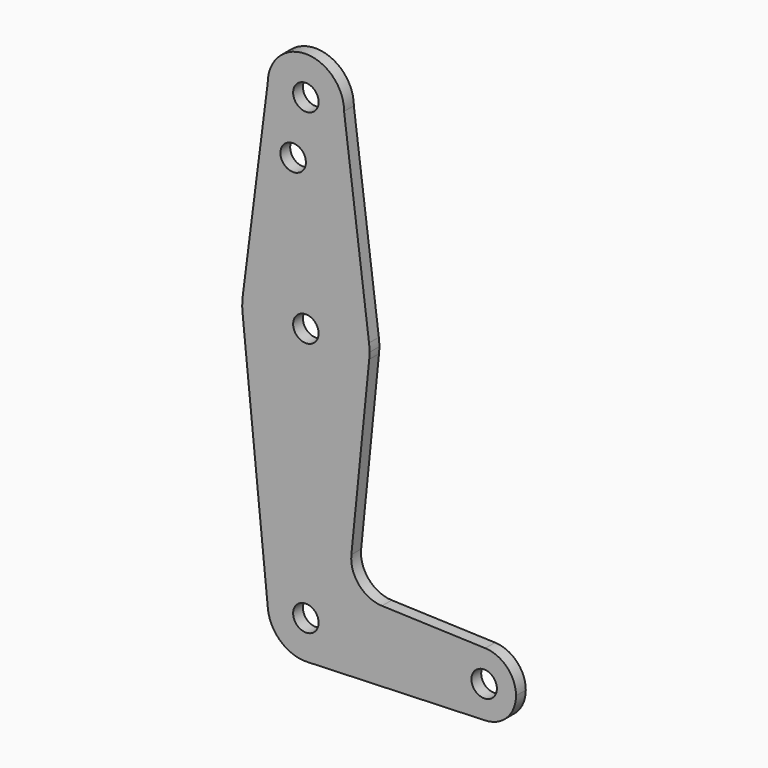
from build123d import *

# Parameters (mm, degrees)
F0_R     = 3.175
F1_DEPTH = 3.048
F2_DEPTH = 3.048


with BuildPart() as f1:
    # F0 (on Front) → F1 (new body)
    with BuildSketch(Plane.XZ):
        with BuildLine():
            ThreePointArc((0.340179, -9.518923), (6.854408, -6.613827), (9.525, 0))
            ThreePointArc((9.525, 0), (-0.476848, 9.513056), (-9.477255, -0.9525))
            ThreePointArc((-9.477255, -0.9525), (-6.262383, -7.17692), (0.340179, -9.518923))
        make_face()
        Circle(F0_R, mode=Mode.SUBTRACT)
        with BuildLine():
            ThreePointArc((44.733482, 7.932436), (36.5125, 0), (44.733482, -7.932436))
            ThreePointArc((44.733482, -7.932436), (50.162007, -5.511523), (52.3875, 0))
            ThreePointArc((52.3875, 0), (50.162007, 5.511523), (44.733482, 7.932436))
        make_face()
        with Locations((44.45, 0)):
            Circle(F0_R, mode=Mode.SUBTRACT)
        with BuildLine():
            ThreePointArc((9.525, 114.3), (0, 123.825), (-9.525, 114.3))
            ThreePointArc((-9.525, 114.3), (0, 104.775), (9.525, 114.3))
        make_face()
        with Locations((0, 114.3)):
            Circle(F0_R, mode=Mode.SUBTRACT)
        with BuildLine():
            ThreePointArc((-9.477255, -0.9525), (-0.476848, 9.513056), (9.525, 0))
            ThreePointArc((9.525, 0), (6.854408, -6.613827), (0.340179, -9.518923))
            Line((0.340179, -9.518923), (44.733482, -7.932436))
            ThreePointArc((44.733482, -7.932436), (36.5125, 0), (44.733482, 7.932436))
            Line((44.733482, 7.932436), (18.9676, 8.853234))
            ThreePointArc((18.9676, 8.853234), (13.2612, 11.571359), (11.341187, 17.593382))
            Line((11.341187, 17.593382), (15.795426, 61.9125))
            ThreePointArc((15.795426, 61.9125), (0, 47.625), (-15.795426, 61.9125))
            Line((-15.795426, 61.9125), (-9.477255, -0.9525))
        make_face()
        with BuildLine():
            Line((-9.525, 114.3), (-15.747457, 65.508289))
            ThreePointArc((-15.747457, 65.508289), (0, 79.375), (15.747457, 65.508289))
            Line((15.747457, 65.508289), (9.525, 114.3))
            ThreePointArc((9.525, 114.3), (0, 104.775), (-9.525, 114.3))
        make_face()
        with Locations((-3.175, 100.0252)):
            Circle(F0_R, mode=Mode.SUBTRACT)
        with BuildLine():
            ThreePointArc((-15.747457, 65.508289), (-15.873588, 63.711757), (-15.795426, 61.9125))
            ThreePointArc((-15.795426, 61.9125), (0, 47.625), (15.795426, 61.9125))
            ThreePointArc((15.795426, 61.9125), (15.855094, 62.705253), (15.875, 63.5))
            ThreePointArc((15.875, 63.5), (15.843082, 64.506168), (15.747457, 65.508289))
            ThreePointArc((15.747457, 65.508289), (0, 79.375), (-15.747457, 65.508289))
        make_face()
        with Locations((0, 63.5)):
            Circle(F0_R, mode=Mode.SUBTRACT)
    extrude(amount=F1_DEPTH)

    # F0 (on Front) → F2 (join)
    with BuildSketch(Plane.XZ):
        with BuildLine():
            ThreePointArc((0.340179, -9.518923), (6.854408, -6.613827), (9.525, 0))
            ThreePointArc((9.525, 0), (-0.476848, 9.513056), (-9.477255, -0.9525))
            ThreePointArc((-9.477255, -0.9525), (-6.262383, -7.17692), (0.340179, -9.518923))
        make_face()
        Circle(F0_R, mode=Mode.SUBTRACT)
        with BuildLine():
            ThreePointArc((-9.477255, -0.9525), (-0.476848, 9.513056), (9.525, 0))
            ThreePointArc((9.525, 0), (6.854408, -6.613827), (0.340179, -9.518923))
            Line((0.340179, -9.518923), (44.733482, -7.932436))
            ThreePointArc((44.733482, -7.932436), (36.5125, 0), (44.733482, 7.932436))
            Line((44.733482, 7.932436), (18.9676, 8.853234))
            ThreePointArc((18.9676, 8.853234), (13.2612, 11.571359), (11.341187, 17.593382))
            Line((11.341187, 17.593382), (15.795426, 61.9125))
            ThreePointArc((15.795426, 61.9125), (0, 47.625), (-15.795426, 61.9125))
            Line((-15.795426, 61.9125), (-9.477255, -0.9525))
        make_face()
        with BuildLine():
            ThreePointArc((-15.747457, 65.508289), (-15.873588, 63.711757), (-15.795426, 61.9125))
            ThreePointArc((-15.795426, 61.9125), (0, 47.625), (15.795426, 61.9125))
            ThreePointArc((15.795426, 61.9125), (15.855094, 62.705253), (15.875, 63.5))
            ThreePointArc((15.875, 63.5), (15.843082, 64.506168), (15.747457, 65.508289))
            ThreePointArc((15.747457, 65.508289), (0, 79.375), (-15.747457, 65.508289))
        make_face()
        with Locations((0, 63.5)):
            Circle(F0_R, mode=Mode.SUBTRACT)
        with BuildLine():
            ThreePointArc((44.733482, 7.932436), (36.5125, 0), (44.733482, -7.932436))
            ThreePointArc((44.733482, -7.932436), (50.162007, -5.511523), (52.3875, 0))
            ThreePointArc((52.3875, 0), (50.162007, 5.511523), (44.733482, 7.932436))
        make_face()
        with Locations((44.45, 0)):
            Circle(F0_R, mode=Mode.SUBTRACT)
        with BuildLine():
            Line((-9.525, 114.3), (-15.747457, 65.508289))
            ThreePointArc((-15.747457, 65.508289), (0, 79.375), (15.747457, 65.508289))
            Line((15.747457, 65.508289), (9.525, 114.3))
            ThreePointArc((9.525, 114.3), (0, 104.775), (-9.525, 114.3))
        make_face()
        with Locations((-3.175, 100.0252)):
            Circle(F0_R, mode=Mode.SUBTRACT)
        with BuildLine():
            ThreePointArc((9.525, 114.3), (0, 123.825), (-9.525, 114.3))
            ThreePointArc((-9.525, 114.3), (0, 104.775), (9.525, 114.3))
        make_face()
        with Locations((0, 114.3)):
            Circle(F0_R, mode=Mode.SUBTRACT)
    extrude(amount=F2_DEPTH)


solid = f1.part
